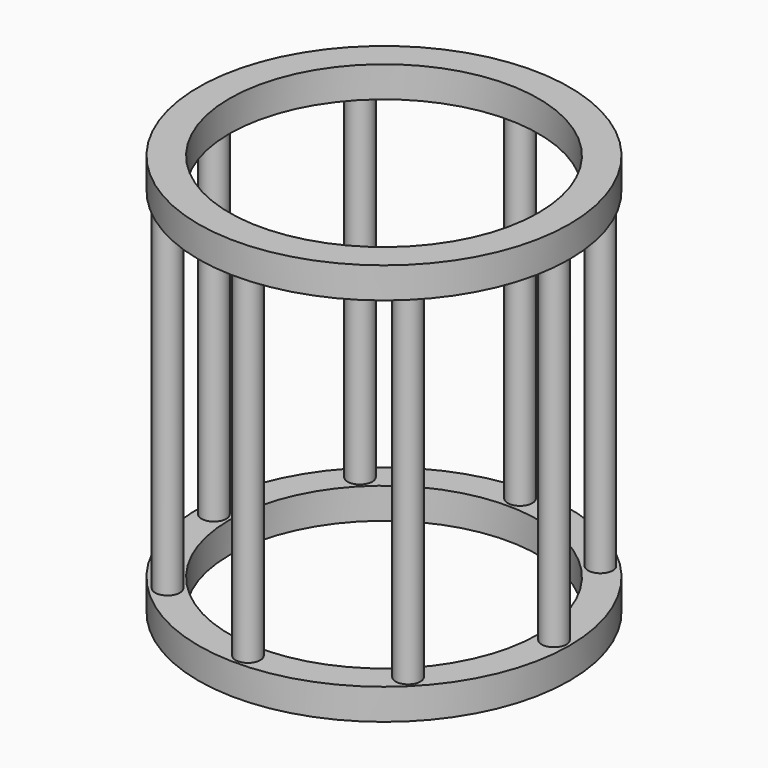
from build123d import *

# Parameters (mm, degrees)
F0_R     = 38.1
F0_R_2   = 31.75
F1_DEPTH = 6.35
F2_R     = 2.54
F3_DEPTH = 69.85
F4_R     = 38.1
F4_R_2   = 31.75
F4_R_3   = 2.54
F5_DEPTH = 6.35


with BuildPart() as f1:
    # F0 (on Top) → F1 (new body)
    with BuildSketch(Plane.XY):
        Circle(F0_R)
        Circle(F0_R_2, mode=Mode.SUBTRACT)
    extrude(amount=F1_DEPTH)

    # F2 (on face) → F3 (join)
    with BuildSketch(Plane.XY.offset(6.35)):
        with Locations((24.695704, 24.695704)):
            Circle(F2_R)
        with Locations((34.925, 0)):
            Circle(F2_R)
        with Locations((24.695704, -24.695704)):
            Circle(F2_R)
        with Locations((0, -34.925)):
            Circle(F2_R)
        with Locations((-24.695704, -24.695704)):
            Circle(F2_R)
        with Locations((-34.925, 0)):
            Circle(F2_R)
        with Locations((-24.695704, 24.695704)):
            Circle(F2_R)
        with Locations((0, 34.925)):
            Circle(F2_R)
    extrude(amount=F3_DEPTH)

    # F4 (on face) → F5 (join)
    with BuildSketch(Plane.XY.offset(76.2)):
        Circle(F4_R)
        Circle(F4_R_2, mode=Mode.SUBTRACT)
        with Locations((0, 34.925)):
            Circle(F4_R_3, mode=Mode.SUBTRACT)
        with Locations((0, 34.925)):
            Circle(F4_R_3)
    extrude(amount=F5_DEPTH)


solid = f1.part
